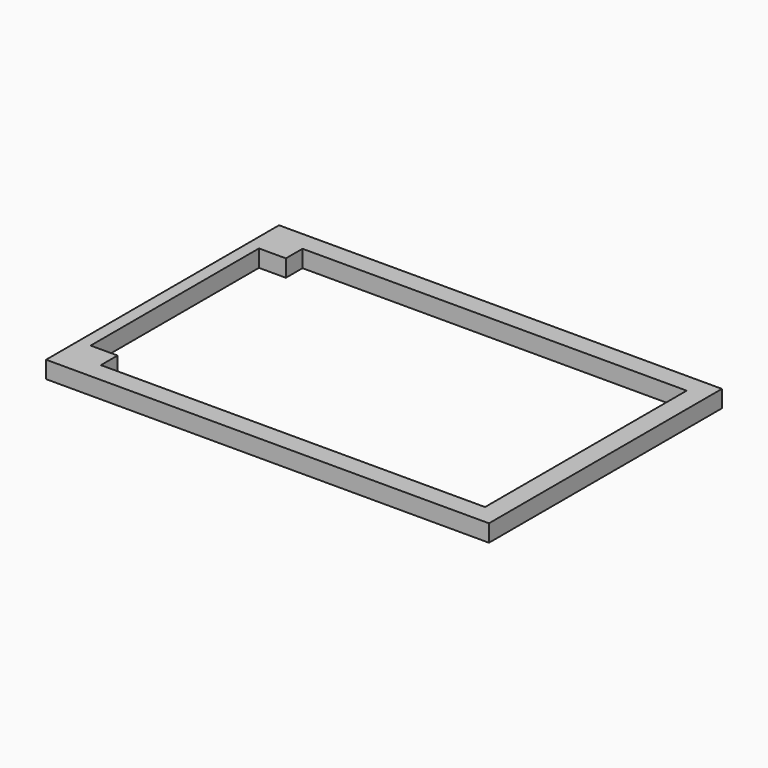
from build123d import *

# Parameters (mm, degrees)
F0_W     = 90.5
F0_H     = 59.5
F1_DEPTH = 3.5


with BuildPart() as f1:
    # F0 (on Top) → F1 (new body)
    with BuildSketch(Plane.XY):
        with Locations((0.882009, -17.913219)):
            Rectangle(F0_W, F0_H)
        Polygon((-41.867991, -39.413219), (-41.867991, 3.586781), (-36.367991, 3.586781), (-36.367991, 7.836781), (42.132009, 7.836781), (42.132009, -43.663219), (-36.367991, -43.663219), (-36.367991, -39.413219), align=None, mode=Mode.SUBTRACT)
    extrude(amount=F1_DEPTH)


solid = f1.part
